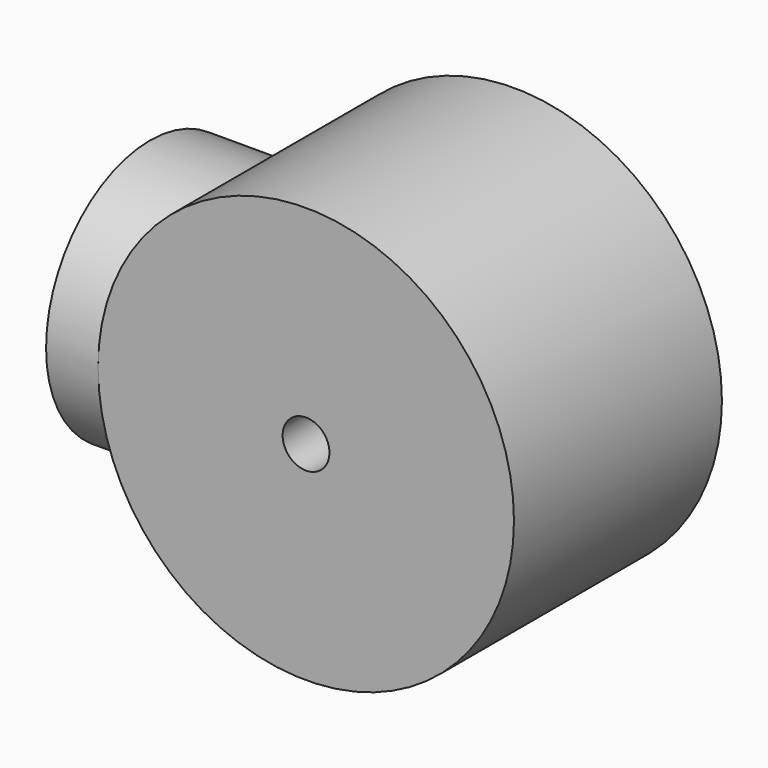
from build123d import *

# Parameters (mm, degrees)
F0_R     = 40
F1_DEPTH = 25
F3_R     = 25
F4_DEPTH = 19.775010108
F5_R     = 4.5
F6_DEPTH = 50.0010001


with BuildPart() as f1:
    # F0 (on Front) → F1 (new body, symmetric)
    with BuildSketch(Plane.XZ):
        Circle(F0_R)
    extrude(amount=F1_DEPTH, both=True)

    # F3 (on offset) → F4 (join, up to face)
    with BuildSketch(Plane.YZ.offset(-50)):
        Circle(F3_R)
    extrude(amount=F4_DEPTH)

    # F5 (on face) → F6 (cut, through all)
    with BuildSketch(Plane.XZ.offset(25)):
        Circle(F5_R)
    extrude(amount=-F6_DEPTH, mode=Mode.SUBTRACT)


solid = f1.part
